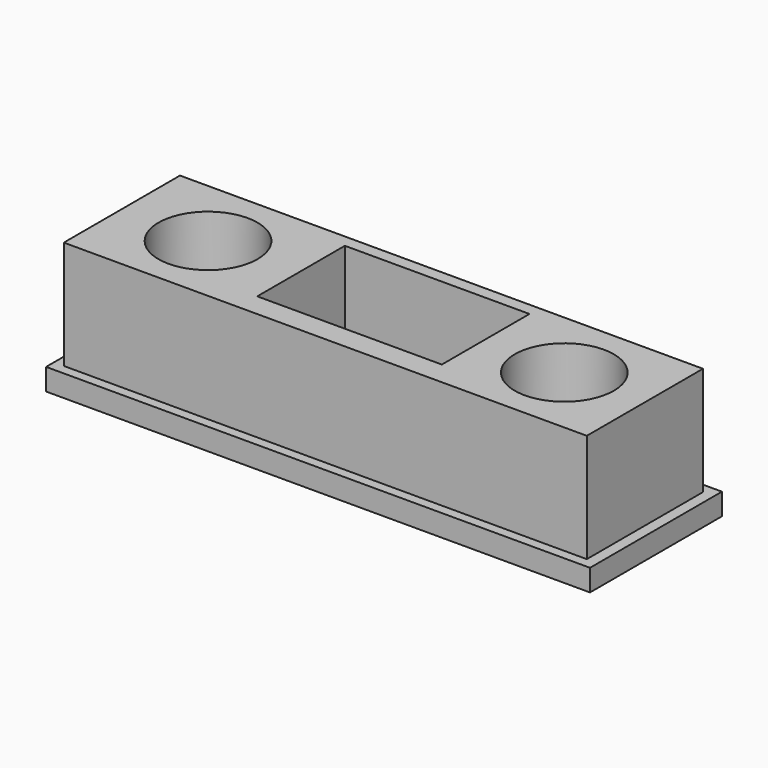
from build123d import *

# Parameters (mm, degrees)
F0_W     = 127.210148
F0_H     = 38.565968
F1_DEPTH = 5.08
F2_W     = 122.317444
F2_H     = 33.961081
F2_R     = 11.576806
F2_R_2   = 11.574122
F3_DEPTH = 25.4
F4_W     = 40.869429
F4_H     = 29.961394
F5_DEPTH = 22.86
F6_W     = 43.170862
F6_H     = 25.614712
F7_DEPTH = 20.32


with BuildPart() as f1:
    # F0 (on Top) → F1 (new body)
    with BuildSketch(Plane.XY):
        with Locations((4e-06, 22.161042)):
            Rectangle(F0_W, F0_H)
        with Locations((4e-06, 22.161042)):
            Rectangle(F0_W, F0_H)
    extrude(amount=-F1_DEPTH)

    # F2 (on face) → F3 (join)
    with BuildSketch(Plane.XY):
        with Locations((-0.143906, 22.161044)):
            Rectangle(F2_W, F2_H)
        with Locations((-41.156225, 22.161044)):
            Circle(F2_R, mode=Mode.SUBTRACT)
        with Locations((42.16354, 22.161044)):
            Circle(F2_R_2, mode=Mode.SUBTRACT)
    extrude(amount=F3_DEPTH)

    # F4 (on face) → F5 (join)
    with BuildSketch(Plane.XY.offset(25.4)):
        with Locations((0.288312, 22.15811)):
            Rectangle(F4_W, F4_H)
    extrude(amount=-F5_DEPTH)

    # F6 (on face) → F7 (cut)
    with BuildSketch(Plane.XY.offset(25.4)):
        with Locations((1.151221, 23.456169)):
            Rectangle(F6_W, F6_H)
    extrude(amount=-F7_DEPTH, mode=Mode.SUBTRACT)


solid = f1.part
